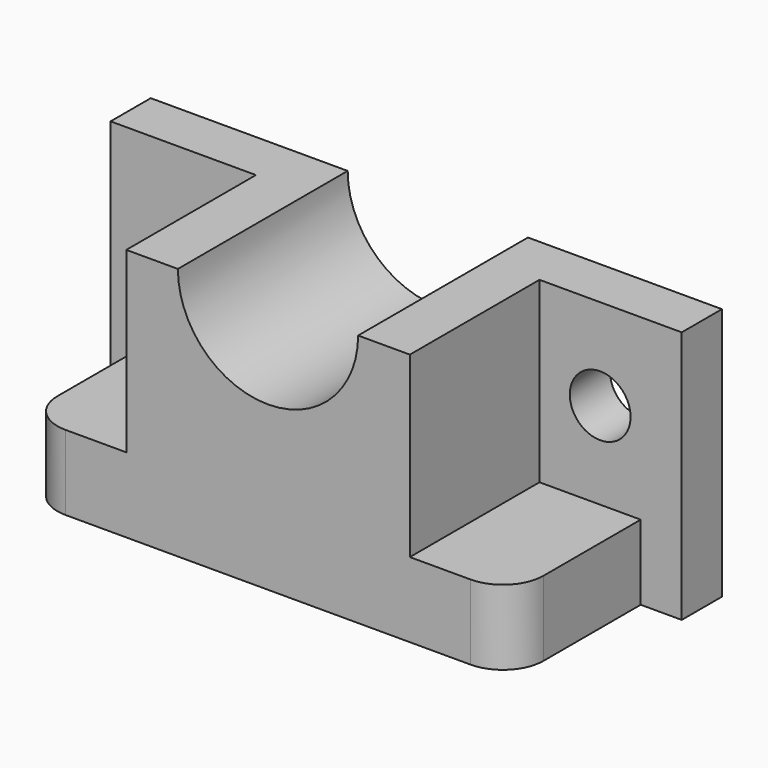
from build123d import *

# Parameters (mm, degrees)
F1_DEPTH = 3.1
F3_DEPTH = 20
F4_R     = 5
F5_R     = 3.75
F6_DEPTH = 25.4


with BuildPart() as f1:
    # F0 (on Front) → F1 (new body, symmetric)
    with BuildSketch(Plane.XZ):
        with BuildLine():
            Line((-35.43221, 15.260131), (-35.43221, -15.989869))
            Line((-35.43221, -15.989869), (35.06779, -15.989869))
            Line((35.06779, -15.989869), (35.06779, 15.260131))
            Line((35.06779, 15.260131), (11.124986, 15.260131))
            ThreePointArc((11.124986, 15.260131), (0, 4.152949), (-11.124986, 15.260131))
            Line((-11.124986, 15.260131), (-35.43221, 15.260131))
        make_face()
    extrude(amount=F1_DEPTH, both=True)

    # F2 (on face) → F3 (join)
    with BuildSketch(Plane.XZ.offset(3.1)):
        with BuildLine():
            Line((-11.124986, 15.260131), (-17.490178, 15.260131))
            Line((-17.490178, 15.260131), (-17.490178, -6.739869))
            Line((-17.490178, -6.739869), (-29.9974, -6.739869))
            Line((-29.9974, -6.739869), (-29.9974, -15.989869))
            Line((-29.9974, -15.989869), (30.0026, -15.989869))
            Line((30.0026, -15.989869), (30.0026, -6.739869))
            Line((30.0026, -6.739869), (17.509822, -6.739869))
            Line((17.509822, -6.739869), (17.509822, 15.260131))
            Line((17.509822, 15.260131), (11.124986, 15.260131))
            ThreePointArc((11.124986, 15.260131), (0, 4.152949), (-11.124986, 15.260131))
        make_face()
    extrude(amount=F3_DEPTH)

    # F4
    f4_edges = [f1.edges().sort_by_distance(p)[0] for p in [
        (-29.9974, -23.1, -11.364869),
        (30.0026, -23.1, -11.364869),
    ]]
    fillet(f4_edges, radius=F4_R)

    # F5 (on face) → F6 (cut)
    with BuildSketch(Plane.XZ.offset(3.1)):
        with Locations((-25, 4.010131)):
            Circle(F5_R)
        with Locations((25, 4.010131)):
            Circle(F5_R)
    extrude(amount=-F6_DEPTH, mode=Mode.SUBTRACT)


solid = f1.part
